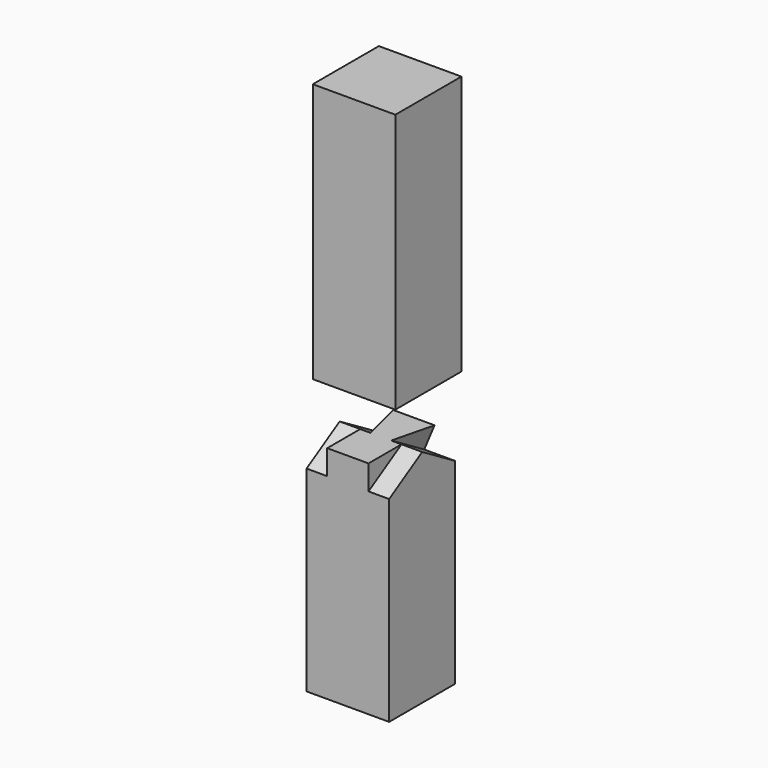
from build123d import *

# Parameters (mm, degrees)
F0_W      = 50.8
F0_H      = 50.8
F1_DEPTH  = 135.89
F6_DEPTH  = 50.8
F11_W     = 12.7
F11_H     = 15.1711734065
F12_DEPTH = 27.7114
F13_DEPTH = 36.9062
F14_DEPTH = 15.1721734065
F17_DEPTH = 5.8166
F18_DEPTH = 25.654
F20_DEPTH = 50.8
F23_DEPTH = 9.906
F24_DEPTH = 28.194
F26_DEPTH = 3.556
F27_DEPTH = 33.528
F29_DEPTH = 12.7
F31_DEPTH = 12.7
F32_W     = 50.8
F32_H     = 50.8
F33_DEPTH = 159.766


with BuildPart() as f1:
    # F0 (on Top) → F1 (new body)
    with BuildSketch(Plane.XY):
        with Locations((4.8314797107, 4.7515430488)):
            Rectangle(F0_W, F0_H)
    extrude(amount=F1_DEPTH)

    # F5 (on face) + F3 (on face) → F6 (cut)
    with BuildSketch(Plane(origin=(-20.5685202893, 0, 0), x_dir=(0, -1, 0), z_dir=(-1, 0, 0))):
        Polygon((-4.7515430488, 120.7188265935), (-4.7515430488, 135.89), (-30.1515430488, 120.7188265935), align=None)
    with BuildSketch(Plane(origin=(-20.5685202893, 0, 0), x_dir=(0, -1, 0), z_dir=(-1, 0, 0))):
        Polygon((-30.1515430488, 135.89), (-30.1515430488, 120.7188265935), (-4.7515430488, 135.89), align=None)
    extrude(amount=-F6_DEPTH, mode=Mode.SUBTRACT)

    # F11 (on face) → F12 (join)
    with BuildSketch(Plane(origin=(0, 30.1515430488, 0), x_dir=(-1, 0, 0), z_dir=(0, 1, 0))):
        with Locations((-4.8314797107, 128.3044132968)):
            Rectangle(F11_W, F11_H)
    extrude(amount=-F12_DEPTH)

    # F2 (on face) → F13 (join)
    with BuildSketch(Plane(origin=(0, 30.1515430488, 0), x_dir=(-1, 0, 0), z_dir=(0, 1, 0))):
        Polygon((7.8685202893, 135.89), (-17.5314797107, 135.89), (-11.1814797107, 120.7188265935), (1.5185202893, 120.7188265935), align=None)
    extrude(amount=-F13_DEPTH)

    # F4 (on face) → F14 (cut, through all)
    with BuildSketch(Plane.XY.offset(135.89)):
        Polygon((17.5314797107, 4.7515430488), (17.5314797107, 30.1515430488), (11.1814797107, 4.7515430488), align=None)
    extrude(amount=-F14_DEPTH, mode=Mode.SUBTRACT)

    # F16 (on 3pt) → F17 (cut)
    with BuildSketch(Plane(origin=(-37.880335568, 9.470083892, 15.8550775482), x_dir=(-0.2072908126, -0.9744242912, 0.0867630094), z_dir=(-0.8988641792, 0.2247160448, 0.3762258452))):
        Polygon((4.8423883579, 129.6698123278), (-21.2242852978, 132.1215514099), (-21.2242852978, 115.6750623459), (3.5260916978, 115.6750623459), align=None)
    extrude(amount=-F17_DEPTH, mode=Mode.SUBTRACT)

    # F18 (add): a face of the model
    f18_faces = [f1.faces().sort_by_distance(p)[0] for p in [
        (30.2314797107, 4.0006963035, 64.3764433841),
    ]]
    extrude(f18_faces, amount=-F18_DEPTH)

    # F19 (on face) → F20 (join)
    with BuildSketch(Plane.YZ.offset(30.2314797107)):
        Polygon((30.1515430488, 120.7188265935), (4.7515430488, 135.89), (4.7515430488, 120.7188265935), align=None)
    extrude(amount=-F20_DEPTH)

    # F22 (on 3pt) → F23 (cut)
    with BuildSketch(Plane(origin=(45.6875894624, 11.4218973656, 19.1228578906), x_dir=(-0.2072908126, 0.9744242912, -0.0867630094), z_dir=(0.8988641792, 0.2247160448, 0.3762258452))):
        Polygon((19.221242587, 111.9441875016), (19.221242587, 128.4180545008), (-6.8454310687, 125.9389374835), (-5.5291344086, 111.9441875016), align=None)
    extrude(amount=-F23_DEPTH, mode=Mode.SUBTRACT)

    # F24 (add): a face of the model
    f24_faces = [f1.faces().sort_by_distance(p)[0] for p in [
        (-20.5685202893, 4.2653508293, 66.1393526656),
    ]]
    extrude(f24_faces, amount=-F24_DEPTH)

    # F25 (on face) → F26 (cut)
    with BuildSketch(Plane.XY.offset(135.89)):
        Polygon((-7.8685202893, 4.7515430488), (-1.5185202893, 4.7515430488), (-7.8685202893, 29.8561221751), align=None)
    extrude(amount=-F26_DEPTH, mode=Mode.SUBTRACT)

    # F27 (add): a face of the model
    f27_faces = [f1.faces().sort_by_distance(p)[0] for p in [
        (-20.5685202893, 4.2653508293, 66.1393526656),
    ]]
    extrude(f27_faces, amount=-F27_DEPTH)

    # F28 (on face) → F29 (cut)
    with BuildSketch(Plane.YZ.offset(30.2314797107)):
        Polygon((-20.6484569512, 135.89), (-20.6484569512, 120.7188265935), (4.7515430488, 135.89), align=None)
    extrude(amount=-F29_DEPTH, mode=Mode.SUBTRACT)

    # F30 (on face) → F31 (cut)
    with BuildSketch(Plane(origin=(-20.5685202893, 0, 0), x_dir=(0, -1, 0), z_dir=(-1, 0, 0))):
        Polygon((-4.7515430488, 135.89), (20.6484569512, 120.7188265935), (20.6484569512, 135.89), align=None)
    extrude(amount=-F31_DEPTH, mode=Mode.SUBTRACT)


with BuildPart() as f33:
    # F32 (on Top) → F33 (new body)
    with BuildSketch(Plane.XY):
        with Locations((-143.0501900613, 7.696475007)):
            Rectangle(F32_W, F32_H)
        with Locations((-143.0501900613, 7.696475007)):
            Rectangle(F32_W, F32_H)
    extrude(amount=F33_DEPTH)


with BuildPart() as f33_1:
    # F34: moved
    add(f33.part.moved(Location((149.352, 0, 168.402))))


solid = Compound([f1.part, f33_1.part])
